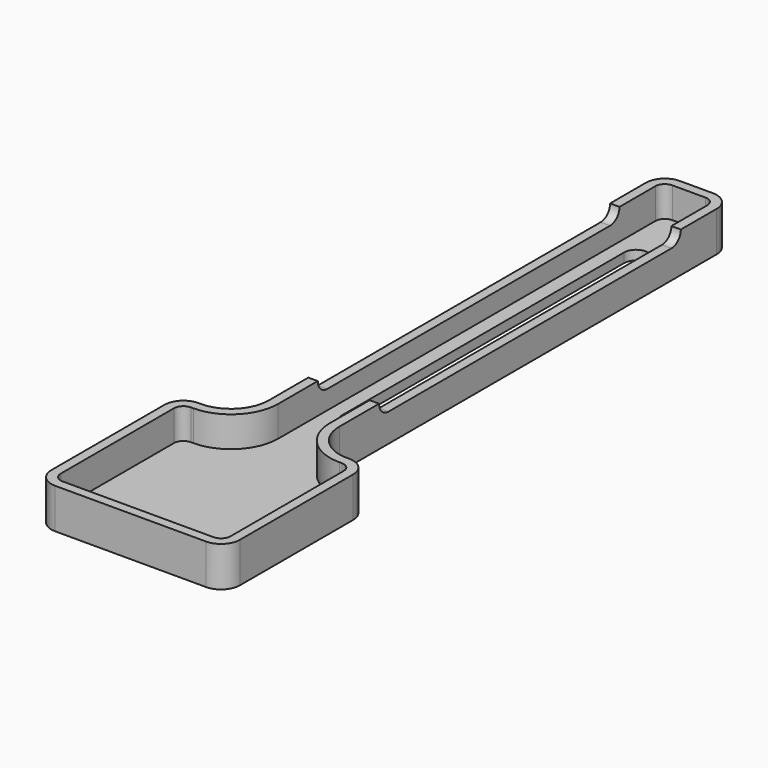
from build123d import *

# Parameters (mm, degrees)
F3_DEPTH  = 8.5
F4_R      = 4
F5_R      = 8
F6_T      = -2
F8_DEPTH  = 2
F10_DEPTH = 15


with BuildPart() as f3:
    # F2 (on Top) → F3 (new body)
    with BuildSketch(Plane.XY):
        Polygon((-7.5, 19), (-20, 19), (-20, -19), (20, -19), (20, 19), (7.5, 19), (7.5, 131), (-7.5, 131), align=None)
    extrude(amount=F3_DEPTH)

    # F4
    f4_edges = [f3.edges().sort_by_distance(p)[0] for p in [
        (-20, 19, 4.25),
        (-20, -19, 4.25),
        (20, -19, 4.25),
        (20, 19, 4.25),
        (7.5, 131, 4.25),
        (-7.5, 131, 4.25),
    ]]
    fillet(f4_edges, radius=F4_R)

    # F5
    f5_edges = [f3.edges().sort_by_distance(p)[0] for p in [
        (7.5, 19, 4.25),
        (-7.5, 19, 4.25),
    ]]
    fillet(f5_edges, radius=F5_R)

    # F6
    f6_openings = [f3.faces().sort_by_distance(p)[0] for p in [
        (0, 39.190123, 8.5),
    ]]
    offset(amount=F6_T, openings=f6_openings)

    # F7 (on face) → F8 (cut, through all)
    with BuildSketch(Plane.XY.offset(2)):
        with BuildLine():
            ThreePointArc((2.5, 115), (0, 117.5), (-2.5, 115))
            Line((-2.5, 115), (-2.5, 40))
            ThreePointArc((-2.5, 40), (0, 37.5), (2.5, 40))
            Line((2.5, 40), (2.5, 115))
        make_face()
    extrude(amount=-F8_DEPTH, mode=Mode.SUBTRACT)

    # F9 (on face) → F10 (cut)
    with BuildSketch(Plane.YZ.offset(7.5)):
        with BuildLine():
            Line((115, 11), (40, 11))
            ThreePointArc((40, 11), (37.5, 8.5), (40, 6))
            Line((40, 6), (115, 6))
            ThreePointArc((115, 6), (117.5, 8.5), (115, 11))
        make_face()
    extrude(amount=-F10_DEPTH, mode=Mode.SUBTRACT)


solid = f3.part
